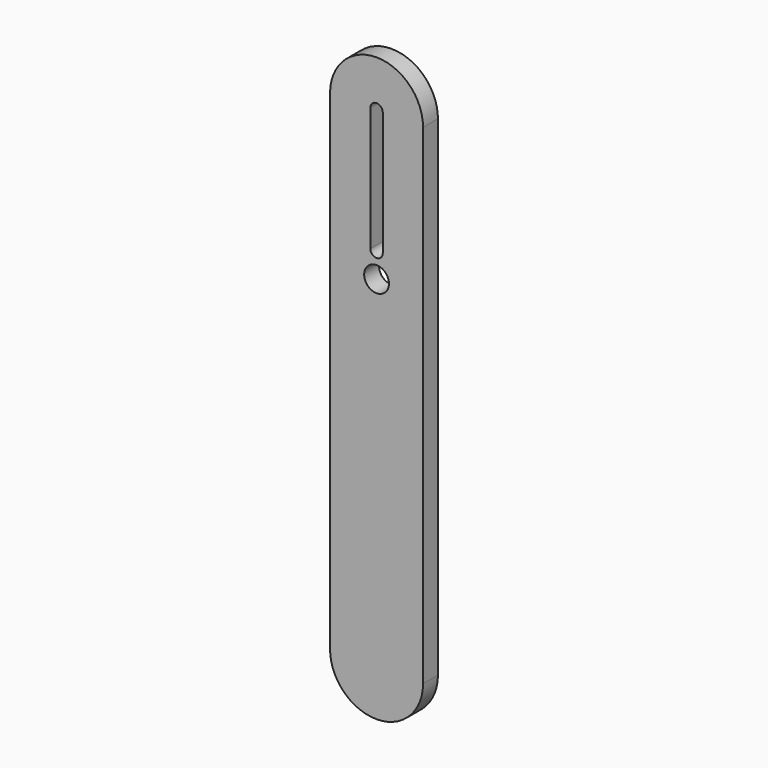
from build123d import *

# Parameters (mm, degrees)
F0_R     = 2
F1_DEPTH = 3


with BuildPart() as f1:
    # F0 (on Front) → F1 (new body)
    with BuildSketch(Plane.XZ):
        with BuildLine():
            Line((-7.5, 24), (-7.5, -55))
            ThreePointArc((-7.5, -55), (0, -62.5), (7.5, -55))
            Line((7.5, -55), (7.5, 24))
            ThreePointArc((7.5, 24), (0, 31.5), (-7.5, 24))
        make_face()
        Circle(F0_R, mode=Mode.SUBTRACT)
        with BuildLine():
            ThreePointArc((-1, 24), (0, 25), (1, 24))
            Line((1, 24), (1, 4))
            ThreePointArc((1, 4), (0, 3), (-1, 4))
            Line((-1, 4), (-1, 24))
        make_face(mode=Mode.SUBTRACT)
    extrude(amount=F1_DEPTH)


solid = f1.part
